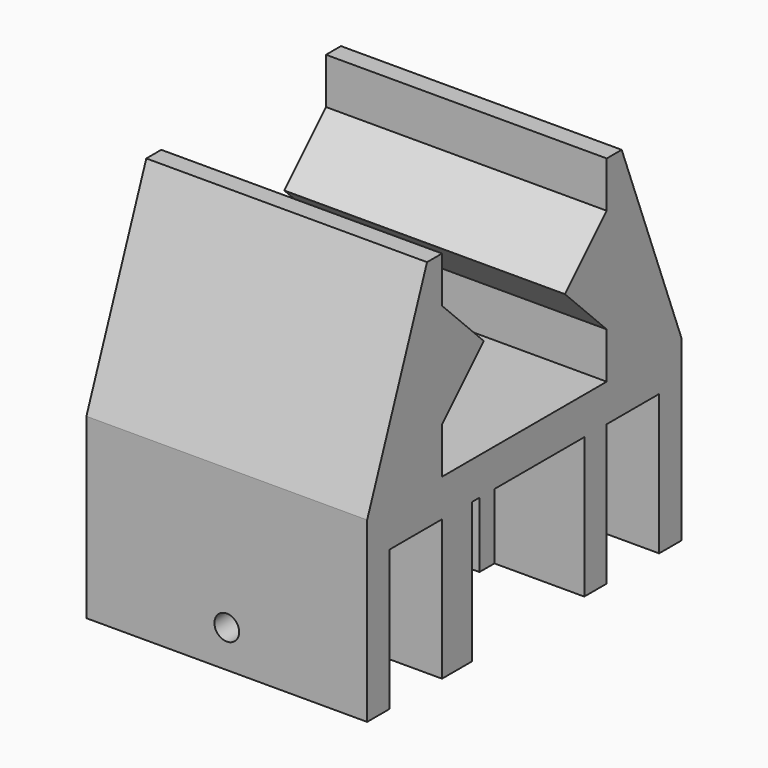
from build123d import *

# Parameters (mm, degrees)
F1_DEPTH = 30
F2_W     = 3
F2_H     = 15
F3_DEPTH = 30
F2_W_2   = 4
F4_DEPTH = 30
F2_W_3   = 2
F2_H_2   = 7
F5_DEPTH = 30
F7_D     = 2.6416


with BuildPart() as f1:
    # F0 (on Right) → F1 (new body)
    with BuildSketch(Plane.YZ):
        Polygon((5.42, 14.5), (11, 8.92), (11, 20.08), align=None)
        Polygon((-11, 20.08), (-11, 8.92), (-5.42, 14.5), align=None)
        Polygon((-21, 4), (-21, 0), (0, 0), (0, 4), (-11, 4), align=None)
        Polygon((0, 4), (0, 0), (21, 0), (21, 4), (11, 4), align=None)
        Polygon((11, 4), (21, 4), (13, 25), (11, 25), (11, 20.08), (11, 8.92), align=None)
        Polygon((-13, 25), (-21, 4), (-11, 4), (-11, 8.92), (-11, 20.08), (-11, 25), align=None)
    extrude(amount=F1_DEPTH)

    # F2 (on Right) → F3 (join, through all)
    with BuildSketch(Plane.YZ):
        with Locations((-19.5, -7.5)):
            Rectangle(F2_W, F2_H)
        with Locations((9.5, -7.5)):
            Rectangle(F2_W, F2_H)
        with Locations((19.5, -7.5)):
            Rectangle(F2_W, F2_H)
    extrude(amount=F3_DEPTH)

    # F2 (on Right) → F4 (join, through all)
    with BuildSketch(Plane.YZ):
        with Locations((-9, -7.5)):
            Rectangle(F2_W_2, F2_H)
    extrude(amount=F4_DEPTH)

    # F2 (on Right) → F5 (join, through all)
    with BuildSketch(Plane.YZ):
        with Locations((-5, -3.5)):
            Rectangle(F2_W_3, F2_H_2)
    extrude(amount=F5_DEPTH)

    # F7 (through all)
    with Locations(Plane(origin=(0, 21, 0), x_dir=(-1, 0, 0), z_dir=(0, 1, 0))):
        with Locations((-15, -11)):
            Hole(F7_D / 2)


solid = f1.part
